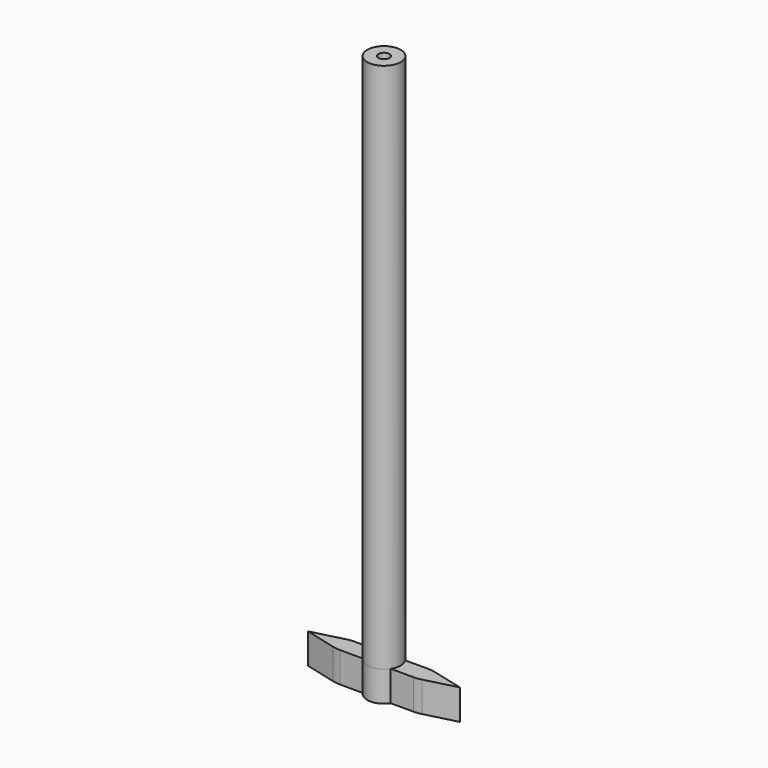
from build123d import *

# Parameters (mm, degrees)
F0_R     = 0.9
F1_DEPTH = 5
F2_R     = 2.75
F2_R_2   = 0.9
F3_DEPTH = 87.5


with BuildPart() as f1:
    # F0 (on Top) → F1 (new body)
    with BuildSketch(Plane.XY):
        with BuildLine():
            ThreePointArc((2.304886, -1.5), (2.636374, -0.782324), (2.75, 0))
            ThreePointArc((2.75, 0), (2.636374, 0.782324), (2.304886, 1.5))
            ThreePointArc((2.304886, 1.5), (0, 2.75), (-2.304886, 1.5))
            ThreePointArc((-2.304886, 1.5), (-2.75, 0), (-2.304886, -1.5))
            ThreePointArc((-2.304886, -1.5), (0, -2.75), (2.304886, -1.5))
        make_face()
        Circle(F0_R, mode=Mode.SUBTRACT)
        with BuildLine():
            ThreePointArc((-2.304886, -1.5), (-2.75, 0), (-2.304886, 1.5))
            Line((-2.304886, 1.5), (-6.055442, 1.5))
            ThreePointArc((-6.055442, 1.5), (-6.685463, 1.460148), (-7.305442, 1.341229))
            Line((-7.305442, 1.341229), (-12.5, 0))
            Line((-12.5, 0), (-7.305442, -1.341229))
            ThreePointArc((-7.305442, -1.341229), (-6.685463, -1.460148), (-6.055442, -1.5))
            Line((-6.055442, -1.5), (-2.304886, -1.5))
        make_face()
        with BuildLine():
            ThreePointArc((2.304886, 1.5), (2.636374, 0.782324), (2.75, 0))
            ThreePointArc((2.75, 0), (2.636374, -0.782324), (2.304886, -1.5))
            Line((2.304886, -1.5), (6.055442, -1.5))
            ThreePointArc((6.055442, -1.5), (6.685463, -1.460148), (7.305442, -1.341229))
            Line((7.305442, -1.341229), (12.5, 0))
            Line((12.5, 0), (7.305442, 1.341229))
            ThreePointArc((7.305442, 1.341229), (6.685463, 1.460148), (6.055442, 1.5))
            Line((6.055442, 1.5), (2.304886, 1.5))
        make_face()
    extrude(amount=F1_DEPTH)

    # F2 (on face) → F3 (join)
    with BuildSketch(Plane.XY.offset(5)):
        Circle(F2_R)
        Circle(F2_R_2, mode=Mode.SUBTRACT)
    extrude(amount=F3_DEPTH)


solid = f1.part
